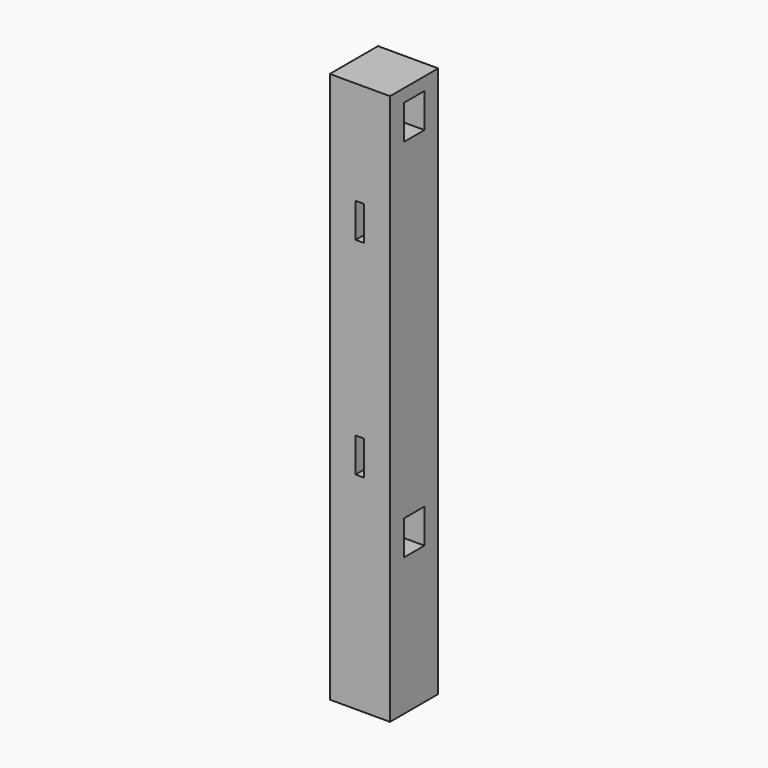
from build123d import *

# Parameters (mm, degrees)
F0_W     = 88.9
F0_H     = 88.9
F1_DEPTH = 812.8
F2_W     = 38.1
F2_H     = 50.8
F3_DEPTH = 44.45
F4_W     = 12.7
F4_H     = 50.8
F5_DEPTH = 88.901


with BuildPart() as f1:
    # F0 (on Top) → F1 (new body)
    with BuildSketch(Plane.XY):
        Rectangle(F0_W, F0_H)
    extrude(amount=F1_DEPTH)

    # F2 (on face) → F3 (cut)
    with BuildSketch(Plane.YZ.offset(44.45)):
        with Locations((0, 768.35)):
            Rectangle(F2_W, F2_H)
        with Locations((0, 228.6)):
            Rectangle(F2_W, F2_H)
    extrude(amount=-F3_DEPTH, mode=Mode.SUBTRACT)

    # F4 (on face) → F5 (cut, through all)
    with BuildSketch(Plane.XZ.offset(44.45)):
        with Locations((0, 635)):
            Rectangle(F4_W, F4_H)
        with Locations((0, 330.2)):
            Rectangle(F4_W, F4_H)
    extrude(amount=-F5_DEPTH, mode=Mode.SUBTRACT)


solid = f1.part
